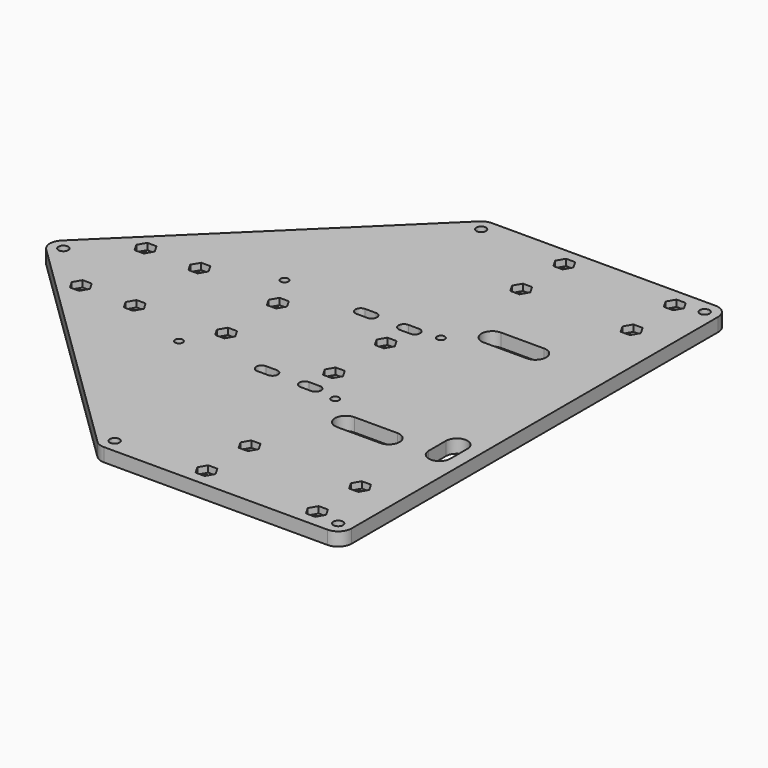
from build123d import *

# Parameters (mm, degrees)
PAD_START       = 15
SKETCH_R        = 1.45
SKETCH_R_2      = 1.8
PAD_DEPTH       = 5
POCKET011_DEPTH = 2.4
POCKET012_DEPTH = 2
SKETCH051_R     = 3
POCKET034_DEPTH = 2
POCKET034_TAPER = 45


with BuildPart() as part:
    # Sketch → Pad (new body)
    with BuildSketch(Plane.XY.offset(PAD_START)):
        with BuildLine():
            Line((-52.963517, 90), (30, 90))
            ThreePointArc((35, 85), (33.535534, 88.535534), (30, 90))
            Line((35, 85), (35, -85))
            ThreePointArc((30, -90), (33.535534, -88.535534), (35, -85))
            Line((30, -90), (-52.963517, -90))
            ThreePointArc((-56.456955, -88.577135), (-54.849561, -89.630641), (-52.963517, -90))
            Line((-56.456955, -88.577135), (-143.493437, -3.577135))
            ThreePointArc((-143.493437, 3.577135), (-145, 0), (-143.493437, -3.577135))
            Line((-143.493437, 3.577135), (-56.456955, 88.577135))
            ThreePointArc((-52.963517, 90), (-54.849561, 89.630641), (-56.456955, 88.577135))
        make_face()
        with Locations((-77.5, 24.5)):
            Circle(SKETCH_R, mode=Mode.SUBTRACT)
        with Locations((-77.5, -24.5)):
            Circle(SKETCH_R, mode=Mode.SUBTRACT)
        with Locations((-19.5, -24.5)):
            Circle(SKETCH_R, mode=Mode.SUBTRACT)
        with Locations((-19.5, 24.5)):
            Circle(SKETCH_R, mode=Mode.SUBTRACT)
        with Locations((20.5, -63)):
            Circle(SKETCH_R_2, mode=Mode.SUBTRACT)
        with Locations((20.5, -83)):
            Circle(SKETCH_R_2, mode=Mode.SUBTRACT)
        with Locations((-20.5, -63)):
            Circle(SKETCH_R_2, mode=Mode.SUBTRACT)
        with Locations((-20.5, -83)):
            Circle(SKETCH_R_2, mode=Mode.SUBTRACT)
        with Locations((-20.5, 83)):
            Circle(SKETCH_R_2, mode=Mode.SUBTRACT)
        with Locations((20.5, 83)):
            Circle(SKETCH_R_2, mode=Mode.SUBTRACT)
        with Locations((-20.5, 63)):
            Circle(SKETCH_R_2, mode=Mode.SUBTRACT)
        with Locations((20.5, 63)):
            Circle(SKETCH_R_2, mode=Mode.SUBTRACT)
        with Locations((-121.5, 15)):
            Circle(SKETCH_R_2, mode=Mode.SUBTRACT)
        with Locations((-101.5, 15)):
            Circle(SKETCH_R_2, mode=Mode.SUBTRACT)
        with Locations((-121.5, -15)):
            Circle(SKETCH_R_2, mode=Mode.SUBTRACT)
        with Locations((-101.5, -15)):
            Circle(SKETCH_R_2, mode=Mode.SUBTRACT)
        with Locations((-70, 12)):
            Circle(SKETCH_R_2, mode=Mode.SUBTRACT)
        with Locations((-30, 12)):
            Circle(SKETCH_R_2, mode=Mode.SUBTRACT)
        with Locations((-70, -12)):
            Circle(SKETCH_R_2, mode=Mode.SUBTRACT)
        with Locations((-30, -12)):
            Circle(SKETCH_R_2, mode=Mode.SUBTRACT)
        with Locations((30, 85)):
            Circle(SKETCH_R_2, mode=Mode.SUBTRACT)
        with Locations((30, -85)):
            Circle(SKETCH_R_2, mode=Mode.SUBTRACT)
        with Locations((-140, 0)):
            Circle(SKETCH_R_2, mode=Mode.SUBTRACT)
        with Locations((-52.963517, 85)):
            Circle(SKETCH_R_2, mode=Mode.SUBTRACT)
        with Locations((-52.963517, -85)):
            Circle(SKETCH_R_2, mode=Mode.SUBTRACT)
        with BuildLine():
            ThreePointArc((-8, 38), (-12, 34), (-8, 30))
            Line((-8, 30), (8, 30))
            ThreePointArc((8, 30), (12, 34), (8, 38))
            Line((-8, 38), (8, 38))
        make_face(mode=Mode.SUBTRACT)
        with BuildLine():
            ThreePointArc((-8, -30), (-12, -34), (-8, -38))
            Line((-8, -38), (8, -38))
            ThreePointArc((8, -38), (12, -34), (8, -30))
            Line((-8, -30), (8, -30))
        make_face(mode=Mode.SUBTRACT)
        with BuildLine():
            ThreePointArc((-28, 21), (-26, 23), (-28, 25))
            Line((-28, 25), (-32, 25))
            ThreePointArc((-32, 25), (-34, 23), (-32, 21))
            Line((-28, 21), (-32, 21))
        make_face(mode=Mode.SUBTRACT)
        with BuildLine():
            ThreePointArc((-28, -25), (-26, -23), (-28, -21))
            Line((-28, -21), (-32, -21))
            ThreePointArc((-32, -21), (-34, -23), (-32, -25))
            Line((-28, -25), (-32, -25))
        make_face(mode=Mode.SUBTRACT)
        with BuildLine():
            ThreePointArc((-48, 25), (-50, 23), (-48, 21))
            Line((-48, 21), (-44, 21))
            ThreePointArc((-44, 21), (-42, 23), (-44, 25))
            Line((-48, 25), (-44, 25))
        make_face(mode=Mode.SUBTRACT)
        with BuildLine():
            ThreePointArc((-48, -21), (-50, -23), (-48, -25))
            Line((-48, -25), (-44, -25))
            ThreePointArc((-44, -25), (-42, -23), (-44, -21))
            Line((-48, -21), (-44, -21))
        make_face(mode=Mode.SUBTRACT)
        with BuildLine():
            ThreePointArc((30, -25), (26, -21), (22, -25))
            Line((22, -25), (22, -33))
            ThreePointArc((22, -33), (26, -37), (30, -33))
            Line((30, -25), (30, -33))
        make_face(mode=Mode.SUBTRACT)
    extrude(amount=PAD_DEPTH)

    # Sketch022 (on Face65 of Pad) → Pocket011 (cut)
    with BuildSketch(Plane.XY.offset(20)):
        Polygon((-66.6, 12), (-68.3, 14.944486), (-71.7, 14.944486), (-73.4, 12), (-71.7, 9.055514), (-68.3, 9.055514), align=None)
        Polygon((-66.6, -12), (-68.3, -9.055514), (-71.7, -9.055514), (-73.4, -12), (-71.7, -14.944486), (-68.3, -14.944486), align=None)
        Polygon((-17.1, 83), (-18.8, 85.944486), (-22.2, 85.944486), (-23.9, 83), (-22.2, 80.055514), (-18.8, 80.055514), align=None)
        Polygon((23.9, 83), (22.2, 85.944486), (18.8, 85.944486), (17.1, 83), (18.8, 80.055514), (22.2, 80.055514), align=None)
        Polygon((23.9, 63), (22.2, 65.944486), (18.8, 65.944486), (17.1, 63), (18.8, 60.055514), (22.2, 60.055514), align=None)
        Polygon((-17.1, 63), (-18.8, 65.944486), (-22.2, 65.944486), (-23.9, 63), (-22.2, 60.055514), (-18.8, 60.055514), align=None)
        Polygon((-17.1, -63), (-18.8, -60.055514), (-22.2, -60.055514), (-23.9, -63), (-22.2, -65.944486), (-18.8, -65.944486), align=None)
        Polygon((23.9, -63), (22.2, -60.055514), (18.8, -60.055514), (17.1, -63), (18.8, -65.944486), (22.2, -65.944486), align=None)
        Polygon((23.9, -83), (22.2, -80.055514), (18.8, -80.055514), (17.1, -83), (18.8, -85.944486), (22.2, -85.944486), align=None)
        Polygon((-17.1, -83), (-18.8, -80.055514), (-22.2, -80.055514), (-23.9, -83), (-22.2, -85.944486), (-18.8, -85.944486), align=None)
        Polygon((-26.6, 12), (-28.3, 14.944486), (-31.7, 14.944486), (-33.4, 12), (-31.7, 9.055514), (-28.3, 9.055514), align=None)
        Polygon((-26.6, -12), (-28.3, -9.055514), (-31.7, -9.055514), (-33.4, -12), (-31.7, -14.944486), (-28.3, -14.944486), align=None)
        Polygon((-118.1, 15), (-119.8, 17.944486), (-123.2, 17.944486), (-124.9, 15), (-123.2, 12.055514), (-119.8, 12.055514), align=None)
        Polygon((-98.1, 15), (-99.8, 17.944486), (-103.2, 17.944486), (-104.9, 15), (-103.2, 12.055514), (-99.8, 12.055514), align=None)
        Polygon((-118.1, -15), (-119.8, -12.055514), (-123.2, -12.055514), (-124.9, -15), (-123.2, -17.944486), (-119.8, -17.944486), align=None)
        Polygon((-98.1, -15), (-99.8, -12.055514), (-103.2, -12.055514), (-104.9, -15), (-103.2, -17.944486), (-99.8, -17.944486), align=None)
    extrude(amount=-POCKET011_DEPTH, mode=Mode.SUBTRACT)

    # Sketch023 (on Face4 of Pocket011) → Pocket012 (cut)
    with BuildSketch(Plane(origin=(0, 0, 15), x_dir=(1, 0, 0), z_dir=(0, 0, -1))):
        Polygon((-74.5, 24.5), (-76, 27.098076), (-79, 27.098076), (-80.5, 24.5), (-79, 21.901924), (-76, 21.901924), align=None)
        Polygon((-16.5, 24.5), (-18, 27.098076), (-21, 27.098076), (-22.5, 24.5), (-21, 21.901924), (-18, 21.901924), align=None)
        Polygon((-16.5, -24.5), (-18, -21.901924), (-21, -21.901924), (-22.5, -24.5), (-21, -27.098076), (-18, -27.098076), align=None)
        Polygon((-74.5, -24.5), (-76, -21.901924), (-79, -21.901924), (-80.5, -24.5), (-79, -27.098076), (-76, -27.098076), align=None)
    extrude(amount=-POCKET012_DEPTH, mode=Mode.SUBTRACT)

    # Sketch051 (on Face4 of Pocket012) → Pocket034 (cut)
    with BuildSketch(Plane(origin=(0, 0, 15), x_dir=(1, 0, 0), z_dir=(0, 0, -1))):
        with Locations((30, 85)):
            Circle(SKETCH051_R)
        with Locations((30, -85)):
            Circle(SKETCH051_R)
        with Locations((-52.963517, -85)):
            Circle(SKETCH051_R)
        with Locations((-140, 0)):
            Circle(SKETCH051_R)
        with Locations((-52.963517, 85)):
            Circle(SKETCH051_R)
    extrude(amount=-POCKET034_DEPTH, taper=POCKET034_TAPER, mode=Mode.SUBTRACT)


solid = part.part
